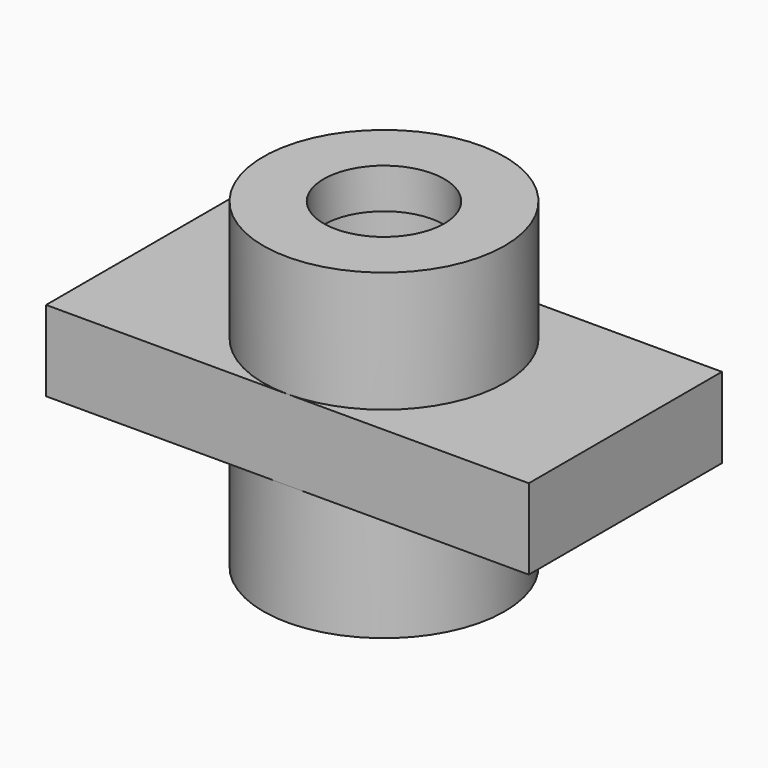
from build123d import *

# Parameters (mm, degrees)
F0_W      = 76.2
F0_H      = 38.1
F1_DEPTH  = 12.7
F2_R      = 19.05
F3_DEPTH  = 19.05
F4_R      = 19.05
F5_DEPTH  = 19.05
F7_R      = 12.7
F8_DEPTH  = 12.7
F9_R      = 19.05
F10_DEPTH = 6.35
F6_R      = 9.525
F11_DEPTH = 50.801


with BuildPart() as f1:
    # F0 (on Top) → F1 (new body)
    with BuildSketch(Plane.XY):
        with Locations((38.1, 19.05)):
            Rectangle(F0_W, F0_H)
    extrude(amount=F1_DEPTH)

    # F2 (on face) → F3 (join)
    with BuildSketch(Plane.XY.offset(12.7)):
        with Locations((38.1, 19.05)):
            Circle(F2_R)
    extrude(amount=F3_DEPTH)

    # F4 (on face) → F5 (join)
    with BuildSketch(Plane(origin=(0, 0, 0), x_dir=(1, 0, 0), z_dir=(0, 0, -1))):
        with Locations((38.1, -19.05)):
            Circle(F4_R)
    extrude(amount=F5_DEPTH)

    # F7 (on face) → F8 (cut)
    with BuildSketch(Plane.XY.offset(31.75)):
        with Locations((38.1, 19.05)):
            Circle(F7_R)
    extrude(amount=-F8_DEPTH, mode=Mode.SUBTRACT)

    # F9 (on face) → F10 (join)
    with BuildSketch(Plane.XY.offset(31.75)):
        with Locations((38.1, 19.05)):
            Circle(F9_R)
    extrude(amount=-F10_DEPTH)

    # F6 (on face) → F11 (cut, through all)
    with BuildSketch(Plane.XY.offset(31.75)):
        with Locations((38.1, 19.05)):
            Circle(F6_R)
    extrude(amount=-F11_DEPTH, mode=Mode.SUBTRACT)


solid = f1.part
